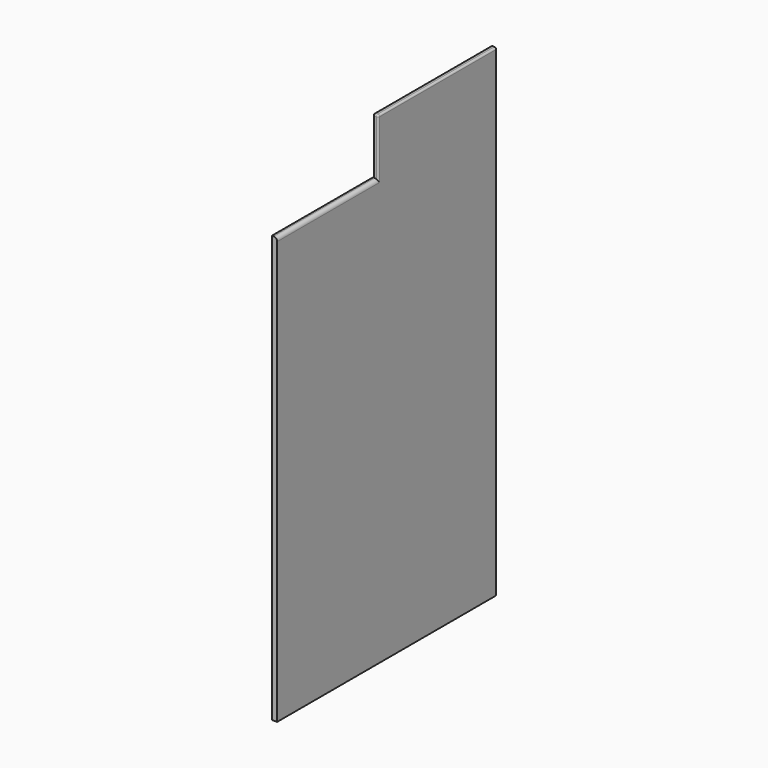
from build123d import *

# Parameters (mm, degrees)
F1_DEPTH = 19.05
F2_R     = 12.7
F3_R     = 6.35
F4_R     = 6.35


with BuildPart() as f1:
    # F0 (on Right) → F1 (new body)
    with BuildSketch(Plane.YZ):
        Polygon((-495.3, -771.525), (495.3, -771.525), (495.3, 771.525), (495.3, 974.725), (-38.1, 974.725), (-38.1, 771.525), (-495.3, 771.525), align=None)
    extrude(amount=F1_DEPTH)

    # F2
    f2_edges = [f1.edges().sort_by_distance(p)[0] for p in [
        (19.05, -266.7, 771.525),
    ]]
    fillet(f2_edges, radius=F2_R)

    # F3
    f3_edges = [f1.edges().sort_by_distance(p)[0] for p in [
        (19.05, 228.6, 974.725),
        (0, 228.6, 974.725),
    ]]
    fillet(f3_edges, radius=F3_R)

    # F4
    f4_edges = [f1.edges().sort_by_distance(p)[0] for p in [
        (19.05, -38.1, 869.95),
        (0, -38.1, 869.95),
    ]]
    fillet(f4_edges, radius=F4_R)


solid = f1.part
